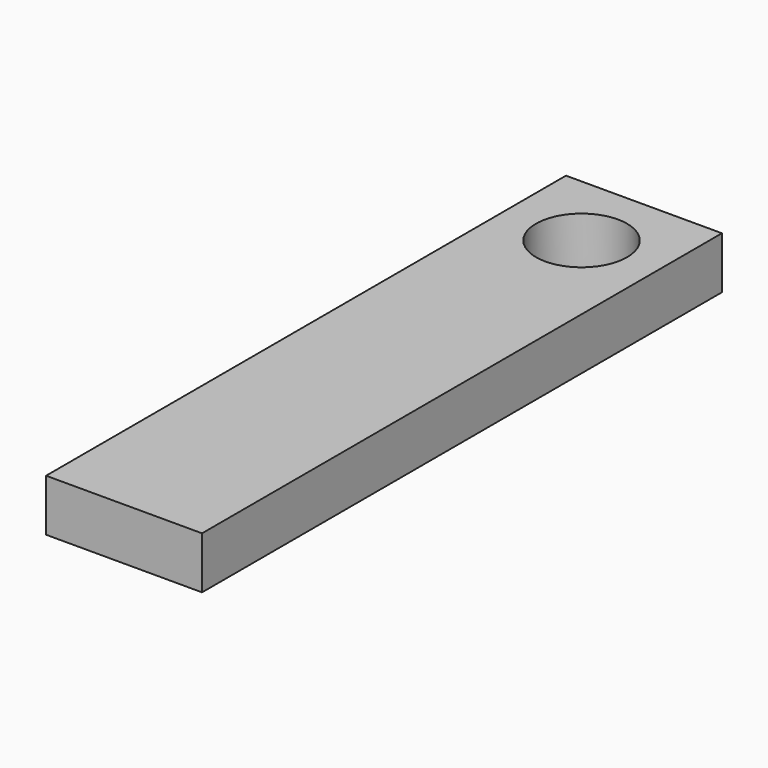
from build123d import *

# Parameters (mm, degrees)
F0_W     = 60
F0_H     = 250
F1_DEPTH = 20
F2_R     = 17.5
F3_DEPTH = 20


with BuildPart() as f1:
    # F0 (on Top) → F1 (new body)
    with BuildSketch(Plane.XY):
        Rectangle(F0_W, F0_H)
    extrude(amount=F1_DEPTH)

    # F2 (on face) → F3 (cut, through all)
    with BuildSketch(Plane.XY.offset(20)):
        with Locations((0, 95)):
            Circle(F2_R)
    extrude(amount=-F3_DEPTH, mode=Mode.SUBTRACT)


solid = f1.part
